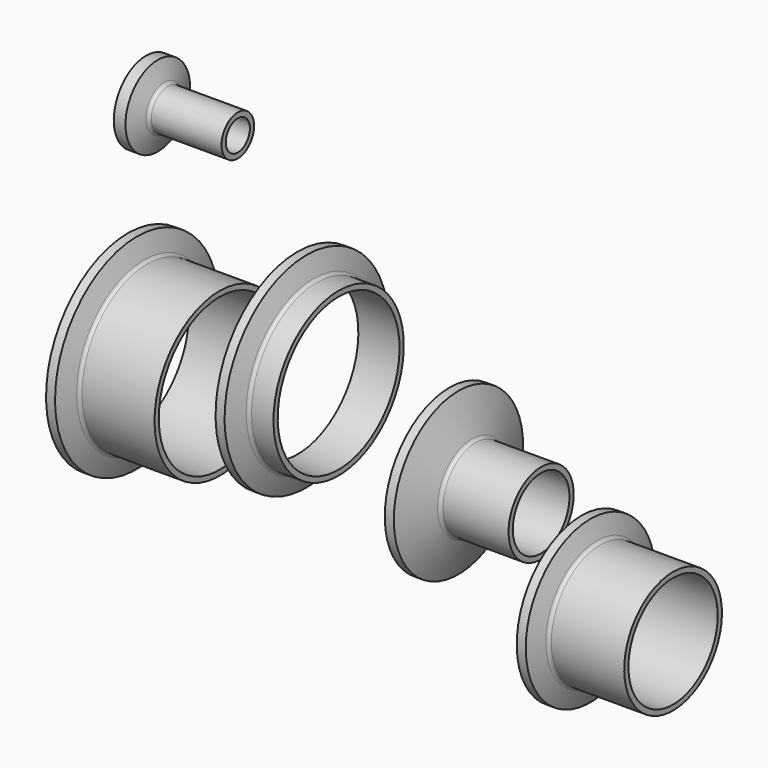
from build123d import *


with BuildPart() as f1:
    # F0 (on Front) → F1 (revolve)
    with BuildSketch(Plane.XZ):
        with BuildLine():
            Line((-10.0203, 14.73147), (-12.827, 14.73147))
            Line((-12.827, 14.73147), (-12.827, 12.43581))
            Line((-12.827, 12.43581), (-11.938041, 12.058469))
            ThreePointArc((-11.938041, 12.058469), (-11.409003, 11.618473), (-11.210696, 10.95957))
            ThreePointArc((-11.210696, 10.95957), (-11.409003, 10.300668), (-11.938041, 9.860672))
            Line((-11.938041, 9.860672), (-12.842857, 9.4766))
            Line((-12.842857, 9.4766), (-12.842857, 6.53997))
            Line((-12.842857, 6.53997), (0, 6.53997))
            Line((0, 6.53997), (0, 8.19097))
            Line((0, 8.19097), (-6.839415, 8.19097))
            ThreePointArc((-6.839415, 8.19097), (-7.495013, 8.397679), (-7.913484, 8.943041))
            Line((-7.913484, 8.943041), (-10.0203, 14.73147))
        make_face()
    revolve(axis=Axis((-6.39176, 0, -17.20903), (-1, 0, 0)))


with BuildPart() as f3:
    # F2 (on Front) → F3 (revolve)
    with BuildSketch(Plane.XZ):
        with BuildLine():
            Line((-62.888993, 2.632799), (-65.695693, 2.632799))
            Line((-65.695693, 2.632799), (-65.695693, 0.337138))
            Line((-65.695693, 0.337138), (-64.806734, -0.040203))
            ThreePointArc((-64.806734, -0.040203), (-64.277696, -0.480199), (-64.079389, -1.139101))
            ThreePointArc((-64.079389, -1.139101), (-64.277696, -1.798004), (-64.806734, -2.238))
            Line((-64.806734, -2.238), (-65.711549, -2.622072))
            Line((-65.711549, -2.622072), (-65.711549, -5.558701))
            Line((-65.711549, -5.558701), (-37.095693, -5.558701))
            Line((-37.095693, -5.558701), (-37.095693, -3.907701))
            Line((-37.095693, -3.907701), (-59.708108, -3.907701))
            ThreePointArc((-59.708108, -3.907701), (-60.363706, -3.700992), (-60.782177, -3.15563))
            Line((-60.782177, -3.15563), (-62.888993, 2.632799))
        make_face()
    revolve(axis=Axis((-50.587541, 0, -29.307701), (-1, 0, 0)))


with BuildPart() as f5:
    # F4 (on Front) → F5 (revolve)
    with BuildSketch(Plane.XZ):
        with BuildLine():
            Line((37.36317, -7.166911), (34.55647, -7.166911))
            Line((34.55647, -7.166911), (34.55647, -9.068871))
            Line((34.55647, -9.068871), (35.445429, -9.446212))
            ThreePointArc((35.445429, -9.446212), (35.974467, -9.886208), (36.172774, -10.545111))
            ThreePointArc((36.172774, -10.545111), (35.974467, -11.204013), (35.445429, -11.644009))
            Line((35.445429, -11.644009), (34.540613, -12.028081))
            Line((34.540613, -12.028081), (34.540613, -21.314711))
            Line((34.540613, -21.314711), (63.15647, -21.314711))
            Line((63.15647, -21.314711), (63.15647, -19.663711))
            Line((63.15647, -19.663711), (42.71197, -19.663711))
            ThreePointArc((42.71197, -19.663711), (42.056372, -19.457001), (41.637901, -18.91164))
            Line((41.637901, -18.91164), (37.36317, -7.166911))
        make_face()
    revolve(axis=Axis((49.664622, 0, -32.363711), (-1, 0, 0)))


with BuildPart() as f7:
    # F6 (on Front) → F7 (revolve)
    with BuildSketch(Plane.XZ):
        with BuildLine():
            Line((78.516538, -28.93777), (75.709838, -28.93777))
            Line((75.709838, -28.93777), (75.709838, -30.83973))
            Line((75.709838, -30.83973), (76.598797, -31.217071))
            ThreePointArc((76.598797, -31.217071), (77.127835, -31.657067), (77.326142, -32.31597))
            ThreePointArc((77.326142, -32.31597), (77.127835, -32.974872), (76.598797, -33.414868))
            Line((76.598797, -33.414868), (75.693981, -33.79894))
            Line((75.693981, -33.79894), (75.693981, -36.73557))
            Line((75.693981, -36.73557), (104.309838, -36.73557))
            Line((104.309838, -36.73557), (104.309838, -35.08457))
            Line((104.309838, -35.08457), (81.554127, -35.08457))
            ThreePointArc((81.554127, -35.08457), (80.89853, -34.877861), (80.480059, -34.332499))
            Line((80.480059, -34.332499), (78.516538, -28.93777))
        make_face()
    revolve(axis=Axis((90.81799, 0, -54.13457), (-1, 0, 0)))


with BuildPart() as f9:
    # F8 (on Front) → F9 (revolve)
    with BuildSketch(Plane.XZ):
        with BuildLine():
            Line((-56.402311, 53.202535), (-60.034511, 53.202535))
            Line((-60.034511, 53.202535), (-60.034511, 52.300835))
            Line((-60.034511, 52.300835), (-59.896232, 52.300835))
            ThreePointArc((-59.896232, 52.300835), (-59.339456, 52.070211), (-59.108832, 51.513435))
            ThreePointArc((-59.108832, 51.513435), (-59.168769, 51.21211), (-59.339456, 50.956659))
            Line((-59.339456, 50.956659), (-60.034511, 50.261604))
            Line((-60.034511, 50.261604), (-60.034511, 45.303135))
            Line((-60.034511, 45.303135), (-31.434511, 45.303135))
            Line((-31.434511, 45.303135), (-31.434511, 46.954135))
            Line((-31.434511, 46.954135), (-53.327742, 46.954135))
            ThreePointArc((-53.327742, 46.954135), (-53.98334, 47.160844), (-54.401811, 47.706206))
            Line((-54.401811, 47.706206), (-56.402311, 53.202535))
        make_face()
    revolve(axis=Axis((-45.271672, 0, 40.604135), (-1, 0, 0)))


solid = Compound([f1.part, f3.part, f5.part, f7.part, f9.part])
